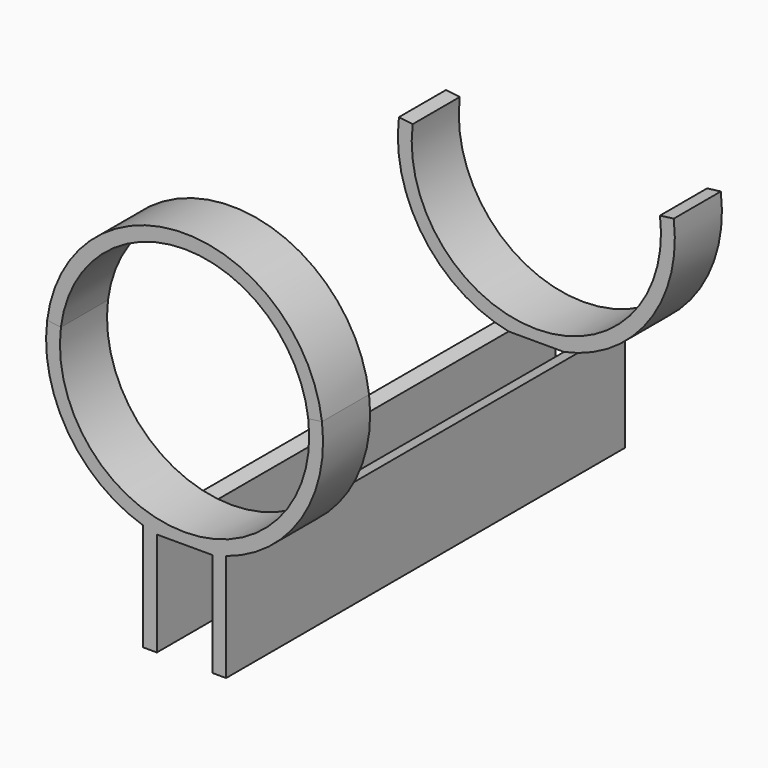
from build123d import *

# Parameters (mm, degrees)
F2_DEPTH = 17
F4_DEPTH = 110
F7_DEPTH = 17


with BuildPart() as f2:
    # F1 (on face) → F2 (new body)
    with BuildSketch(Plane.XZ):
        with BuildLine():
            Line((-8, -69.1918358845), (-8, -39.1918358845))
            Line((-8, -39.1918358845), (8, -39.1918358845))
            Line((8, -39.1918358845), (8, -69.1918358845))
            Line((8, -69.1918358845), (12, -69.1918358845))
            Line((12, -69.1918358845), (12, -38.1575680567))
            ThreePointArc((12, -38.1575680567), (33.6676630929, -21.5983439611), (39.686269666, 5))
            Line((39.686269666, 5), (35.7176426994, 4.5))
            ThreePointArc((35.7176426994, 4.5), (0, -36), (-35.7176426994, 4.5))
            Line((-35.7176426994, 4.5), (-39.686269666, 5))
            ThreePointArc((-39.686269666, 5), (-33.6676630929, -21.5983439611), (-12, -38.1575680567))
            Line((-12, -38.1575680567), (-12, -69.1918358845))
            Line((-12, -69.1918358845), (-8, -69.1918358845))
        make_face()
    extrude(amount=F2_DEPTH)

    # F3 (on Front) → F4 (join)
    with BuildSketch(Plane.XZ):
        Polygon((8, -69.1918358845), (12, -69.1918358845), (12, -38.1575680567), (8, -39.1918358845), align=None)
        Polygon((-8, -69.1918358845), (-8, -39.1918358845), (-12, -38.1575680567), (-12, -69.1918358845), align=None)
    extrude(amount=-F4_DEPTH)

    # F6 (on offset) → F7 (join)
    with BuildSketch(Plane.XZ.offset(-110)):
        with BuildLine():
            Line((-8, -69.1918358845), (-8, -39.1918358845))
            Line((-8, -39.1918358845), (8, -39.1918358845))
            Line((8, -39.1918358845), (8, -69.1918358845))
            Line((8, -69.1918358845), (12, -69.1918358845))
            Line((12, -69.1918358845), (12, -38.1575680567))
            ThreePointArc((12, -38.1575680567), (33.6676630929, -21.5983439611), (39.686269666, 5))
            Line((39.686269666, 5), (35.7176426994, 4.5))
            ThreePointArc((35.7176426994, 4.5), (0, -36), (-35.7176426994, 4.5))
            Line((-35.7176426994, 4.5), (-39.686269666, 5))
            ThreePointArc((-39.686269666, 5), (-33.6676630929, -21.5983439611), (-12, -38.1575680567))
            Line((-12, -38.1575680567), (-12, -69.1918358845))
            Line((-12, -69.1918358845), (-8, -69.1918358845))
        make_face()
    extrude(amount=-F7_DEPTH)


with BuildPart() as f2b:
    # F0 (on Front) → F2, piece 2 (new body)
    with BuildSketch(Plane.XZ):
        with BuildLine():
            Line((-39.686269666, 5), (-35.7176426994, 4.5))
            ThreePointArc((-35.7176426994, 4.5), (0, 36), (35.7176426994, 4.5))
            Line((35.7176426994, 4.5), (39.686269666, 5))
            ThreePointArc((39.686269666, 5), (0, 40), (-39.686269666, 5))
        make_face()
    extrude(amount=F2_DEPTH)


solid = Compound([f2.part, f2b.part])
